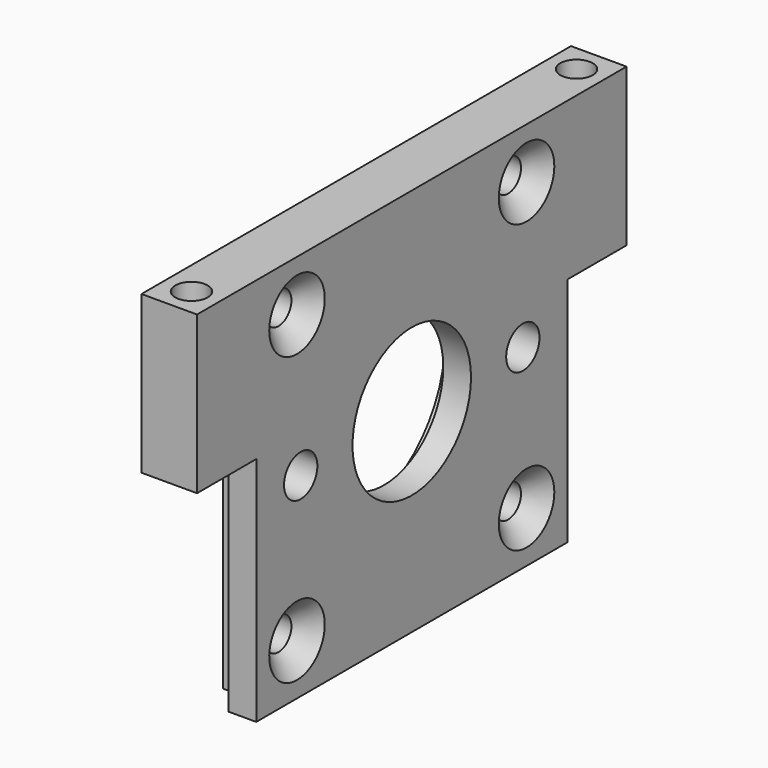
from build123d import *

# Parameters (mm, degrees)
SKETCH204_W             = 58
SKETCH204_H             = 6
SKETCH204_R             = 1.75
PAD052_DEPTH            = 21
POCKET125_DEPTH         = 168.722954
SKETCH203_R             = 8
SKETCH203_R_2           = 2.25
POCKET126_DEPTH         = 0.001
POCKET126_DEPTH_BACK    = 6.001
POLARPATTERN005_COUNT   = 4
SKETCH210_R             = 12
POCKET130_DEPTH         = 3.001
BODY111_ROLL_ANGLE      = -90
BODY111_PLACEMENT_ANGLE = 90


with BuildPart() as part:
    # Sketch204 → Pad052 (new body, symmetric)
    with BuildSketch(Plane.XZ):
        with Locations((0, 3)):
            Rectangle(SKETCH204_W, SKETCH204_H)
        with Locations((-26, 3)):
            Circle(SKETCH204_R, mode=Mode.SUBTRACT)
        with Locations((26, 3)):
            Circle(SKETCH204_R, mode=Mode.SUBTRACT)
    extrude(amount=PAD052_DEPTH, both=True)

    # Sketch205 → Pocket125 (cut, through all)
    with BuildSketch(Plane.XZ.offset(4)):
        Polygon((-29, 6), (-18, 6), (-18, 3), (-21, 3), (-21, 0), (-29, 0), align=None)
    pocket125 = extrude(amount=-POCKET125_DEPTH, mode=Mode.SUBTRACT)

    # Mirrored027: Pocket125 across YZ
    add(pocket125.mirror(Plane.YZ), mode=Mode.SUBTRACT)

    # Sketch203 → Pocket126 (cut, two sides)
    with BuildSketch(Plane.XY) as pocket126_sk:
        Circle(SKETCH203_R)
        with Locations((-15, 0)):
            Circle(SKETCH203_R_2)
        with Locations((15, 0)):
            Circle(SKETCH203_R_2)
    extrude(amount=-POCKET126_DEPTH, mode=Mode.SUBTRACT)
    extrude(pocket126_sk.sketch, amount=POCKET126_DEPTH_BACK, mode=Mode.SUBTRACT)

    # Sketch206 → Groove003 (revolve, cut)
    with BuildSketch(Plane.XZ.offset(15.5)):
        Polygon((-19.25, 0), (-15.5, 0), (-15.5, 6), (-17.25, 6), (-17.25, 2), align=None)
    groove003 = revolve(axis=Axis((-15.5, -15.5, 0), (0, 0, 1)), mode=Mode.SUBTRACT)

    # PolarPattern005: Groove003 ×4 about axis
    polarpattern005_axis = Axis((0, 0, 0), (0, 0, 1))
    for i in range(1, POLARPATTERN005_COUNT):
        add(groove003.rotate(polarpattern005_axis, i * 360 / POLARPATTERN005_COUNT), mode=Mode.SUBTRACT)

    # Sketch210 → Pocket130 (cut, through all)
    with BuildSketch(Plane.XY.offset(3)):
        Circle(SKETCH210_R)
    extrude(amount=POCKET130_DEPTH, mode=Mode.SUBTRACT)


with BuildPart() as part_1:
    # Body111 roll: moved
    add(part.part.rotate(Axis((0, 0, 0), (1, 0, 0)), BODY111_ROLL_ANGLE))


with BuildPart() as part_2:
    # Body111 placement: moved
    add(part_1.part.moved(Location((61, -100, 25))).rotate(Axis((61, -100, 25), (0, 0, 1)), BODY111_PLACEMENT_ANGLE))


solid = part_2.part
